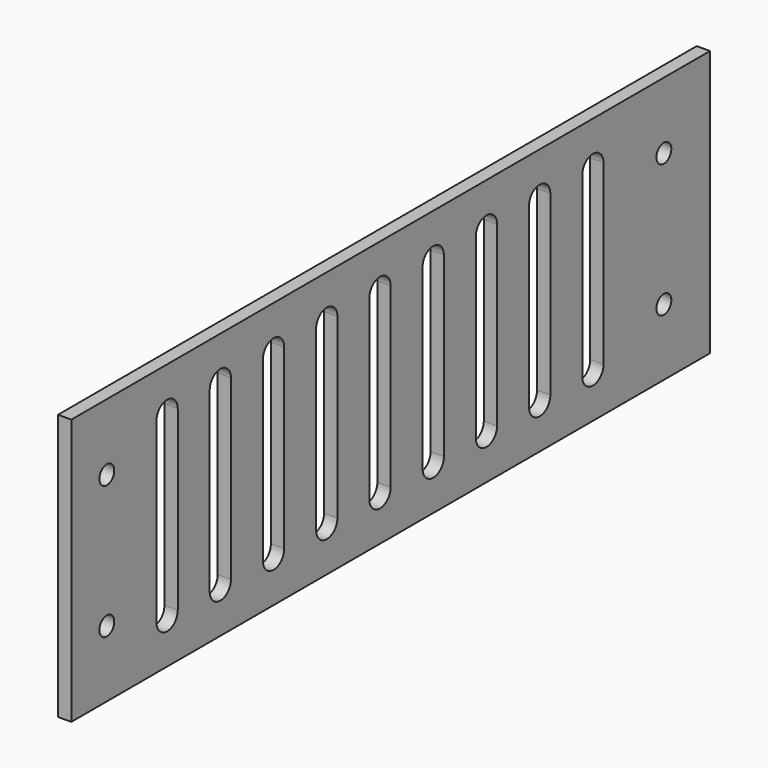
from build123d import *

# Parameters (mm, degrees)
EXTRUDE001_DEPTH  = 51
ARRAY002_Y_COUNT  = 9
ARRAY002_Y_PITCH  = 15
CYLINDER003_R     = 2.1
CYLINDER003_DEPTH = 102
ARRAY001_Y_COUNT  = 2
ARRAY001_Y_PITCH  = 157
ARRAY001_Z_COUNT  = 2
ARRAY001_Z_PITCH  = 30
BOX004_W          = 3
BOX004_H          = 180
BOX004_DEPTH      = 60


with BuildPart() as side_vent_array:
    # Sketch001 → Extrude001 (new body, symmetric)
    with BuildSketch(Plane.YZ):
        with BuildLine():
            Line((-3, 50), (-3, 10))
            ThreePointArc((-3, 10), (0, 7), (3, 10))
            Line((3, 50), (3, 10))
            ThreePointArc((3, 50), (0, 53), (-3, 50))
        make_face()
    extrude(amount=EXTRUDE001_DEPTH, both=True)

    # Array002 Y: side vent array ×9


with BuildPart() as side_vent_array_1:
    add(side_vent_array.part)
    with Locations(*[(0, i * ARRAY002_Y_PITCH, 0) for i in range(1, ARRAY002_Y_COUNT)]):
        add(side_vent_array.part)


with BuildPart() as side_vent_array_2:
    # Array002 placement: moved
    add(side_vent_array_1.part.moved(Location((0, 30, 0))))


with BuildPart() as side_hole_fusion:
    # Cylinder003 → Cylinder003 (new body)
    with BuildSketch(Plane(origin=(-51, 13, 15), x_dir=(0, 0, -1), z_dir=(1, 0, 0))):
        Circle(CYLINDER003_R)
    extrude(amount=CYLINDER003_DEPTH)

    # Array001 Y: side hole fusion ×2


with BuildPart() as side_hole_fusion_1:
    add(side_hole_fusion.part)
    with Locations(*[(0, i * ARRAY001_Y_PITCH, 0) for i in range(1, ARRAY001_Y_COUNT)]):
        add(side_hole_fusion.part)

    # Array001 Z: side hole fusion ×2


with BuildPart() as side_hole_fusion_2:
    add(side_hole_fusion_1.part)
    with Locations(*[(0, 0, i * ARRAY001_Z_PITCH) for i in range(1, ARRAY001_Z_COUNT)]):
        add(side_hole_fusion_1.part)

    # Fusion001: union side vent array
    add(side_vent_array_2.part)


with BuildPart() as psu_side_cut001:
    # Box004 → Box004 (new body)
    with BuildSketch(Plane(origin=(48, 3, 0), x_dir=(1, 0, 0), z_dir=(0, 0, 1))):
        with Locations((1.5, 90)):
            Rectangle(BOX004_W, BOX004_H)
    extrude(amount=BOX004_DEPTH)

    # Cut001: cut side hole fusion
    add(side_hole_fusion_2.part, mode=Mode.SUBTRACT)


solid = psu_side_cut001.part
